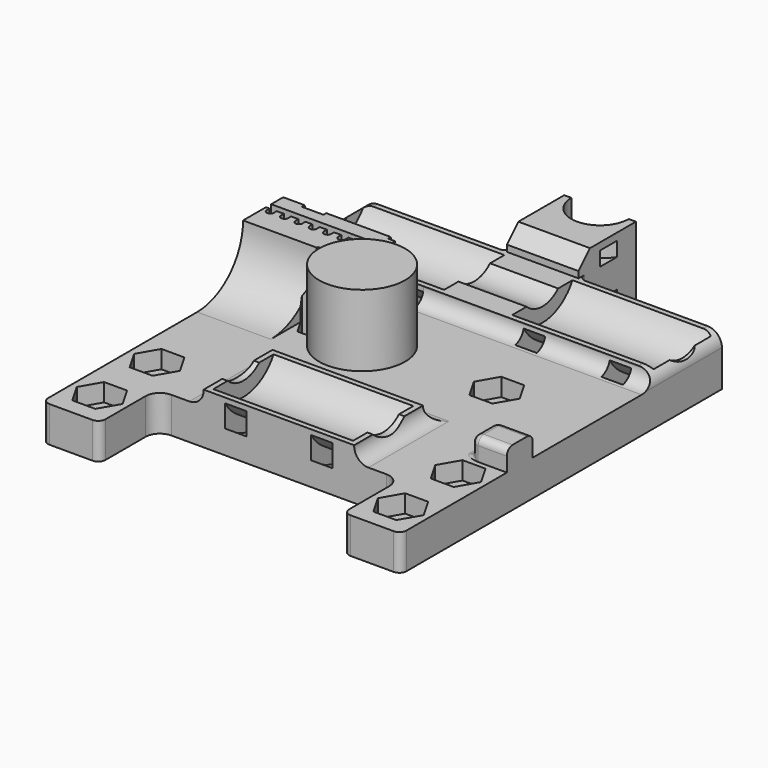
from build123d import *

# Parameters (mm, degrees)
CYLINDER005_R           = 6
CYLINDER005_DEPTH       = 10
BOX008_W                = 5
BOX008_H                = 4.5
BOX008_DEPTH            = 8
CYLINDER026_R           = 6
CYLINDER026_DEPTH       = 2
CYLINDER025_R           = 8
CYLINDER025_DEPTH       = 2
CYLINDER024_R           = 4
CYLINDER024_DEPTH       = 10
BOX007_W                = 10
BOX007_H                = 10
BOX007_DEPTH            = 10
BOX006_W                = 3
BOX006_H                = 1
BOX006_DEPTH            = 7
BOX005_W                = 3
BOX005_H                = 1
BOX005_DEPTH            = 7
BOX004_W                = 3
BOX004_H                = 3
BOX004_DEPTH            = 7
PRISM004_DEPTH          = 15
CYLINDER023_R           = 1.6
CYLINDER023_DEPTH       = 10
CYLINDER022_R           = 1.6
CYLINDER022_DEPTH       = 10
PRISM005_DEPTH          = 15
PRISM002_DEPTH          = 15
CYLINDER021_R           = 1.6
CYLINDER021_DEPTH       = 10
CYLINDER020_R           = 1.6
CYLINDER020_DEPTH       = 10
PRISM003_DEPTH          = 15
BOX002_W                = 8
BOX002_H                = 10
BOX002_DEPTH            = 5
BOX003_W                = 8
BOX003_H                = 10
BOX003_DEPTH            = 5
PRISM_DEPTH             = 15
CYLINDER019_R           = 1.6
CYLINDER019_DEPTH       = 10
CYLINDER018_R           = 1.6
CYLINDER018_DEPTH       = 10
PRISM001_DEPTH          = 15
CYLINDER015_R           = 7
CYLINDER015_DEPTH       = 3
CYLINDER015_PITCH_ANGLE = 90
CYLINDER014_R           = 9
CYLINDER014_DEPTH       = 3
CYLINDER014_PITCH_ANGLE = 90
CYLINDER013_R           = 7
CYLINDER013_DEPTH       = 3
CYLINDER013_PITCH_ANGLE = 90
CYLINDER012_R           = 9
CYLINDER012_DEPTH       = 3
CYLINDER012_PITCH_ANGLE = 90
CYLINDER011_R           = 7
CYLINDER011_DEPTH       = 3
CYLINDER011_PITCH_ANGLE = 90
CYLINDER010_R           = 9
CYLINDER010_DEPTH       = 3
CYLINDER010_PITCH_ANGLE = 90
CYLINDER009_R           = 7
CYLINDER009_DEPTH       = 3
CYLINDER009_PITCH_ANGLE = 90
CYLINDER008_R           = 9
CYLINDER008_DEPTH       = 3
CYLINDER008_PITCH_ANGLE = 90
CYLINDER007_R           = 7
CYLINDER007_DEPTH       = 3
CYLINDER007_PITCH_ANGLE = 90
CYLINDER006_R           = 9
CYLINDER006_DEPTH       = 3
CYLINDER006_PITCH_ANGLE = 90
CYLINDER017_R           = 7
CYLINDER017_DEPTH       = 3
CYLINDER017_PITCH_ANGLE = 90
CYLINDER016_R           = 9
CYLINDER016_DEPTH       = 3
CYLINDER016_PITCH_ANGLE = 90
BOX001_W                = 20
BOX001_H                = 0.9
BOX001_DEPTH            = 10
PAD002_DEPTH            = 10
ARRAY_X_COUNT           = 8
ARRAY_X_PITCH           = 2
CYLINDER003_R           = 4
CYLINDER003_DEPTH       = 70
CYLINDER003_PITCH_ANGLE = 90
CYLINDER002_R           = 6
CYLINDER002_DEPTH       = 19.5
CYLINDER002_PITCH_ANGLE = 90
CYLINDER001_R           = 6
CYLINDER001_DEPTH       = 19.5
CYLINDER001_PITCH_ANGLE = 90
CYLINDER_R              = 6
CYLINDER_DEPTH          = 19.5
CYLINDER_PITCH_ANGLE    = 90
CYLINDER004_R           = 4
CYLINDER004_DEPTH       = 70
CYLINDER004_PITCH_ANGLE = 90
BOX_W                   = 50
BOX_H                   = 46
BOX_DEPTH               = 5
SKETCH_W                = 50
SKETCH_H                = 12
SKETCH_W_2              = 21
PAD_DEPTH               = 2.1
FILLET_R                = 2
FILLET001_R             = 2
PAD001_DEPTH            = 16
POCKET_DEPTH            = 8
FILLET002_R             = 1
CHAMFER_SIZE            = 2
FILLET003_R             = 2
FILLET004_R             = 1
FILLET005_R             = 1


with BuildPart() as cilindro:
    # Cylinder005 → Cylinder005 (new body)
    with BuildSketch(Plane(origin=(19, 22, 5), x_dir=(1, 0, 0), z_dir=(0, 0, 1))):
        Circle(CYLINDER005_R)
    extrude(amount=CYLINDER005_DEPTH)


with BuildPart() as taco_endstop:
    # Box008 → Box008 (new body)
    with BuildSketch(Plane(origin=(45, 8.5, 0), x_dir=(1, 0, 0), z_dir=(0, 0, 1))):
        with Locations((2.5, 2.25)):
            Rectangle(BOX008_W, BOX008_H)
    extrude(amount=BOX008_DEPTH)


with BuildPart() as cilindro009:
    # Cylinder026 → Cylinder026 (new body)
    with BuildSketch(Plane(origin=(25, 56, 0), x_dir=(1, 0, 0), z_dir=(0, 0, 1))):
        Circle(CYLINDER026_R)
    extrude(amount=CYLINDER026_DEPTH)


with BuildPart() as cilindro008:
    # Cylinder025 → Cylinder025 (new body)
    with BuildSketch(Plane(origin=(25, 56, 0), x_dir=(1, 0, 0), z_dir=(0, 0, 1))):
        Circle(CYLINDER025_R)
    extrude(amount=CYLINDER025_DEPTH)


with BuildPart() as brida006:
    # Cut014 base: copy of Cilindro008
    add(cilindro008.part)

    # Cut014: cut Cilindro009
    add(cilindro009.part, mode=Mode.SUBTRACT)


with BuildPart() as brida006_1:
    # Cut014 placement: moved
    add(brida006.part.moved(Location((0, 0, 1))))


with BuildPart() as cilindro007:
    # Cylinder024 → Cylinder024 (new body)
    with BuildSketch(Plane(origin=(25, 56, 0), x_dir=(1, 0, 0), z_dir=(0, 0, 1))):
        Circle(CYLINDER024_R)
    extrude(amount=CYLINDER024_DEPTH)


with BuildPart() as cables_cabeza:
    # Cut015 base: copy of Cilindro008
    add(cilindro008.part)

    # Cut015: cut Cilindro009
    add(cilindro009.part, mode=Mode.SUBTRACT)


with BuildPart() as cables_cabeza_1:
    # Cut015 placement: moved
    add(cables_cabeza.part.moved(Location((0, 0, 7))))

    # Fusion009: union brida006, Cilindro007
    add(brida006_1.part)
    add(cilindro007.part)


with BuildPart() as cubo007:
    # Box007 → Box007 (new body)
    with BuildSketch(Plane(origin=(20, 46, 0), x_dir=(1, 0, 0), z_dir=(0, 0, 1))):
        with Locations((5, 5)):
            Rectangle(BOX007_W, BOX007_H)
    extrude(amount=BOX007_DEPTH)


with BuildPart() as cubo006:
    # Box006 → Box006 (new body)
    with BuildSketch(Plane(origin=(3, 33, 6), x_dir=(1, 0, 0), z_dir=(0, 0, 1))):
        with Locations((1.5, 0.5)):
            Rectangle(BOX006_W, BOX006_H)
    extrude(amount=BOX006_DEPTH)


with BuildPart() as cubo005:
    # Box005 → Box005 (new body)
    with BuildSketch(Plane(origin=(15, 33, 6), x_dir=(1, 0, 0), z_dir=(0, 0, 1))):
        with Locations((1.5, 0.5)):
            Rectangle(BOX005_W, BOX005_H)
    extrude(amount=BOX005_DEPTH)


with BuildPart() as cubo004:
    # Box004 → Box004 (new body)
    with BuildSketch(Plane(origin=(15, 33, 7.1), x_dir=(1, 0, 0), z_dir=(0, 0, 1))):
        with Locations((1.5, 1.5)):
            Rectangle(BOX004_W, BOX004_H)
    extrude(amount=BOX004_DEPTH)


with BuildPart() as prisma004:
    # Prism004 → Prism004 (new body)
    with BuildSketch(Plane(origin=(46, 5, 2.5), x_dir=(1, 0, 0), z_dir=(0, 0, 1))):
        Polygon((3.2, 0), (1.6, 2.771281), (-1.6, 2.771281), (-3.2, 0), (-1.6, -2.771281), (1.6, -2.771281), align=None)
    extrude(amount=PRISM004_DEPTH)


with BuildPart() as cilindro006:
    # Cylinder023 → Cylinder023 (new body)
    with BuildSketch(Plane(origin=(4, 5, 0), x_dir=(1, 0, 0), z_dir=(0, 0, 1))):
        Circle(CYLINDER023_R)
    extrude(amount=CYLINDER023_DEPTH)


with BuildPart() as cilindro005:
    # Cylinder022 → Cylinder022 (new body)
    with BuildSketch(Plane(origin=(46, 5, 0), x_dir=(1, 0, 0), z_dir=(0, 0, 1))):
        Circle(CYLINDER022_R)
    extrude(amount=CYLINDER022_DEPTH)


with BuildPart() as tornillos002:
    # Prism005 → Prism005 (new body)
    with BuildSketch(Plane(origin=(4, 5, 2.5), x_dir=(1, 0, 0), z_dir=(0, 0, 1))):
        Polygon((3.2, 0), (1.6, 2.771281), (-1.6, 2.771281), (-3.2, 0), (-1.6, -2.771281), (1.6, -2.771281), align=None)
    extrude(amount=PRISM005_DEPTH)

    # Fusion006: union Prisma004, Cilindro006, Cilindro005
    add(prisma004.part)
    add(cilindro006.part)
    add(cilindro005.part)


with BuildPart() as prisma002:
    # Prism002 → Prism002 (new body)
    with BuildSketch(Plane(origin=(46, -5, 2.5), x_dir=(1, 0, 0), z_dir=(0, 0, 1))):
        Polygon((3.2, 0), (1.6, 2.771281), (-1.6, 2.771281), (-3.2, 0), (-1.6, -2.771281), (1.6, -2.771281), align=None)
    extrude(amount=PRISM002_DEPTH)


with BuildPart() as cilindro004:
    # Cylinder021 → Cylinder021 (new body)
    with BuildSketch(Plane(origin=(4, -5, 0), x_dir=(1, 0, 0), z_dir=(0, 0, 1))):
        Circle(CYLINDER021_R)
    extrude(amount=CYLINDER021_DEPTH)


with BuildPart() as cilindro003:
    # Cylinder020 → Cylinder020 (new body)
    with BuildSketch(Plane(origin=(46, -5, 0), x_dir=(1, 0, 0), z_dir=(0, 0, 1))):
        Circle(CYLINDER020_R)
    extrude(amount=CYLINDER020_DEPTH)


with BuildPart() as obj1:
    # Prism003 → Prism003 (new body)
    with BuildSketch(Plane(origin=(4, -5, 2.5), x_dir=(1, 0, 0), z_dir=(0, 0, 1))):
        Polygon((3.2, 0), (1.6, 2.771281), (-1.6, 2.771281), (-3.2, 0), (-1.6, -2.771281), (1.6, -2.771281), align=None)
    extrude(amount=PRISM003_DEPTH)

    # Fusion005: union Prisma002, Cilindro004, Cilindro003
    add(prisma002.part)
    add(cilindro004.part)
    add(cilindro003.part)

    # Fusion007: union tornillos002
    add(tornillos002.part)


with BuildPart() as cubo002:
    # Box002 → Box002 (new body)
    with BuildSketch(Plane(origin=(0, -10, 0), x_dir=(1, 0, 0), z_dir=(0, 0, 1))):
        with Locations((4, 5)):
            Rectangle(BOX002_W, BOX002_H)
    extrude(amount=BOX002_DEPTH)


with BuildPart() as cubo003:
    # Box003 → Box003 (new body)
    with BuildSketch(Plane(origin=(42, -10, 0), x_dir=(1, 0, 0), z_dir=(0, 0, 1))):
        with Locations((4, 5)):
            Rectangle(BOX003_W, BOX003_H)
    extrude(amount=BOX003_DEPTH)


with BuildPart() as prisma:
    # Prism → Prism (new body)
    with BuildSketch(Plane(origin=(13, 23, 2.5), x_dir=(1, 0, 0), z_dir=(0, 0, 1))):
        Polygon((3.2, 0), (1.6, 2.771281), (-1.6, 2.771281), (-3.2, 0), (-1.6, -2.771281), (1.6, -2.771281), align=None)
    extrude(amount=PRISM_DEPTH)


with BuildPart() as cilindro002:
    # Cylinder019 → Cylinder019 (new body)
    with BuildSketch(Plane(origin=(37, 23, 0), x_dir=(1, 0, 0), z_dir=(0, 0, 1))):
        Circle(CYLINDER019_R)
    extrude(amount=CYLINDER019_DEPTH)


with BuildPart() as cilindro001:
    # Cylinder018 → Cylinder018 (new body)
    with BuildSketch(Plane(origin=(13, 23, 0), x_dir=(1, 0, 0), z_dir=(0, 0, 1))):
        Circle(CYLINDER018_R)
    extrude(amount=CYLINDER018_DEPTH)


with BuildPart() as tornillos:
    # Prism001 → Prism001 (new body)
    with BuildSketch(Plane(origin=(37, 23, 2.5), x_dir=(1, 0, 0), z_dir=(0, 0, 1))):
        Polygon((3.2, 0), (1.6, 2.771281), (-1.6, 2.771281), (-3.2, 0), (-1.6, -2.771281), (1.6, -2.771281), align=None)
    extrude(amount=PRISM001_DEPTH)

    # Fusion003: union Prisma, Cilindro002, Cilindro001
    add(prisma.part)
    add(cilindro002.part)
    add(cilindro001.part)


with BuildPart() as obj2:
    # Cylinder015 → Cylinder015 (new body)
    with BuildSketch(Plane.XY):
        Circle(CYLINDER015_R)
    extrude(amount=CYLINDER015_DEPTH)


with BuildPart() as obj2_1:
    # Cylinder015 pitch: moved
    add(obj2.part.rotate(Axis((0, 0, 0), (0, 1, 0)), CYLINDER015_PITCH_ANGLE))


with BuildPart() as obj2_2:
    # Cylinder015 placement: moved
    add(obj2_1.part.moved(Location((30, 40, 10))))


with BuildPart() as brida004:
    # Cylinder014 → Cylinder014 (new body)
    with BuildSketch(Plane.XY):
        Circle(CYLINDER014_R)
    extrude(amount=CYLINDER014_DEPTH)


with BuildPart() as brida004_1:
    # Cylinder014 pitch: moved
    add(brida004.part.rotate(Axis((0, 0, 0), (0, 1, 0)), CYLINDER014_PITCH_ANGLE))


with BuildPart() as brida004_2:
    # Cylinder014 placement: moved
    add(brida004_1.part.moved(Location((30, 40, 10))))

    # Cut006: cut obj2
    add(obj2_2.part, mode=Mode.SUBTRACT)


with BuildPart() as brida004_3:
    # Cut006 placement: moved
    add(brida004_2.part.moved(Location((-15, 0, 0))))


with BuildPart() as obj3:
    # Cylinder013 → Cylinder013 (new body)
    with BuildSketch(Plane.XY):
        Circle(CYLINDER013_R)
    extrude(amount=CYLINDER013_DEPTH)


with BuildPart() as obj3_1:
    # Cylinder013 pitch: moved
    add(obj3.part.rotate(Axis((0, 0, 0), (0, 1, 0)), CYLINDER013_PITCH_ANGLE))


with BuildPart() as obj3_2:
    # Cylinder013 placement: moved
    add(obj3_1.part.moved(Location((30, 40, 10))))


with BuildPart() as brida003:
    # Cylinder012 → Cylinder012 (new body)
    with BuildSketch(Plane.XY):
        Circle(CYLINDER012_R)
    extrude(amount=CYLINDER012_DEPTH)


with BuildPart() as brida003_1:
    # Cylinder012 pitch: moved
    add(brida003.part.rotate(Axis((0, 0, 0), (0, 1, 0)), CYLINDER012_PITCH_ANGLE))


with BuildPart() as brida003_2:
    # Cylinder012 placement: moved
    add(brida003_1.part.moved(Location((30, 40, 10))))

    # Cut005: cut obj3
    add(obj3_2.part, mode=Mode.SUBTRACT)


with BuildPart() as brida003_3:
    # Cut005 placement: moved
    add(brida003_2.part.moved(Location((-0.5, -34, 0))))


with BuildPart() as obj4:
    # Cylinder011 → Cylinder011 (new body)
    with BuildSketch(Plane.XY):
        Circle(CYLINDER011_R)
    extrude(amount=CYLINDER011_DEPTH)


with BuildPart() as obj4_1:
    # Cylinder011 pitch: moved
    add(obj4.part.rotate(Axis((0, 0, 0), (0, 1, 0)), CYLINDER011_PITCH_ANGLE))


with BuildPart() as obj4_2:
    # Cylinder011 placement: moved
    add(obj4_1.part.moved(Location((30, 40, 10))))


with BuildPart() as brida002:
    # Cylinder010 → Cylinder010 (new body)
    with BuildSketch(Plane.XY):
        Circle(CYLINDER010_R)
    extrude(amount=CYLINDER010_DEPTH)


with BuildPart() as brida002_1:
    # Cylinder010 pitch: moved
    add(brida002.part.rotate(Axis((0, 0, 0), (0, 1, 0)), CYLINDER010_PITCH_ANGLE))


with BuildPart() as brida002_2:
    # Cylinder010 placement: moved
    add(brida002_1.part.moved(Location((30, 40, 10))))

    # Cut004: cut obj4
    add(obj4_2.part, mode=Mode.SUBTRACT)


with BuildPart() as brida002_3:
    # Cut004 placement: moved
    add(brida002_2.part.moved(Location((-27, 0, 0))))


with BuildPart() as obj5:
    # Cylinder009 → Cylinder009 (new body)
    with BuildSketch(Plane.XY):
        Circle(CYLINDER009_R)
    extrude(amount=CYLINDER009_DEPTH)


with BuildPart() as obj5_1:
    # Cylinder009 pitch: moved
    add(obj5.part.rotate(Axis((0, 0, 0), (0, 1, 0)), CYLINDER009_PITCH_ANGLE))


with BuildPart() as obj5_2:
    # Cylinder009 placement: moved
    add(obj5_1.part.moved(Location((30, 40, 10))))


with BuildPart() as brida001:
    # Cylinder008 → Cylinder008 (new body)
    with BuildSketch(Plane.XY):
        Circle(CYLINDER008_R)
    extrude(amount=CYLINDER008_DEPTH)


with BuildPart() as brida001_1:
    # Cylinder008 pitch: moved
    add(brida001.part.rotate(Axis((0, 0, 0), (0, 1, 0)), CYLINDER008_PITCH_ANGLE))


with BuildPart() as brida001_2:
    # Cylinder008 placement: moved
    add(brida001_1.part.moved(Location((30, 40, 10))))

    # Cut003: cut obj5
    add(obj5_2.part, mode=Mode.SUBTRACT)


with BuildPart() as brida001_3:
    # Cut003 placement: moved
    add(brida001_2.part.moved(Location((14, 0, 0))))


with BuildPart() as obj6:
    # Cylinder007 → Cylinder007 (new body)
    with BuildSketch(Plane.XY):
        Circle(CYLINDER007_R)
    extrude(amount=CYLINDER007_DEPTH)


with BuildPart() as obj6_1:
    # Cylinder007 pitch: moved
    add(obj6.part.rotate(Axis((0, 0, 0), (0, 1, 0)), CYLINDER007_PITCH_ANGLE))


with BuildPart() as obj6_2:
    # Cylinder007 placement: moved
    add(obj6_1.part.moved(Location((30, 40, 10))))


with BuildPart() as brida:
    # Cylinder006 → Cylinder006 (new body)
    with BuildSketch(Plane.XY):
        Circle(CYLINDER006_R)
    extrude(amount=CYLINDER006_DEPTH)


with BuildPart() as brida_1:
    # Cylinder006 pitch: moved
    add(brida.part.rotate(Axis((0, 0, 0), (0, 1, 0)), CYLINDER006_PITCH_ANGLE))


with BuildPart() as brida_2:
    # Cylinder006 placement: moved
    add(brida_1.part.moved(Location((30, 40, 10))))

    # Cut002: cut obj6
    add(obj6_2.part, mode=Mode.SUBTRACT)


with BuildPart() as brida_3:
    # Cut002 placement: moved
    add(brida_2.part.moved(Location((2, 0, 0))))


with BuildPart() as obj7:
    # Cylinder017 → Cylinder017 (new body)
    with BuildSketch(Plane.XY):
        Circle(CYLINDER017_R)
    extrude(amount=CYLINDER017_DEPTH)


with BuildPart() as obj7_1:
    # Cylinder017 pitch: moved
    add(obj7.part.rotate(Axis((0, 0, 0), (0, 1, 0)), CYLINDER017_PITCH_ANGLE))


with BuildPart() as obj7_2:
    # Cylinder017 placement: moved
    add(obj7_1.part.moved(Location((30, 40, 10))))


with BuildPart() as fusion002:
    # Cylinder016 → Cylinder016 (new body)
    with BuildSketch(Plane.XY):
        Circle(CYLINDER016_R)
    extrude(amount=CYLINDER016_DEPTH)


with BuildPart() as fusion002_1:
    # Cylinder016 pitch: moved
    add(fusion002.part.rotate(Axis((0, 0, 0), (0, 1, 0)), CYLINDER016_PITCH_ANGLE))


with BuildPart() as fusion002_2:
    # Cylinder016 placement: moved
    add(fusion002_1.part.moved(Location((30, 40, 10))))

    # Cut007: cut obj7
    add(obj7_2.part, mode=Mode.SUBTRACT)


with BuildPart() as fusion002_3:
    # Cut007 placement: moved
    add(fusion002_2.part.moved(Location((-12.5, -34, 0))))

    # Fusion002: union brida004, brida003, brida002, brida001, brida
    add(brida004_3.part)
    add(brida003_3.part)
    add(brida002_3.part)
    add(brida001_3.part)
    add(brida_3.part)


with BuildPart() as cubo001:
    # Box001 → Box001 (new body)
    with BuildSketch(Plane(origin=(-1, 29, 6), x_dir=(1, 0, 0), z_dir=(0, 0, 1))):
        with Locations((10, 0.45)):
            Rectangle(BOX001_W, BOX001_H)
    extrude(amount=BOX001_DEPTH)


with BuildPart() as correa:
    # Sketch002 → Pad002 (new body)
    with BuildSketch(Plane.XY.offset(6)):
        with BuildLine():
            Line((0, 29), (0, 28.5))
            ThreePointArc((0, 28.5), (0.5, 27.999995), (1, 28.5))
            Line((1, 29), (1, 28.5))
            Line((0, 29), (1, 29))
        make_face()
    extrude(amount=PAD002_DEPTH)

    # Array X: correa ×8


with BuildPart() as correa_1:
    add(correa.part)
    with Locations(*[(i * ARRAY_X_PITCH, 0, 0) for i in range(1, ARRAY_X_COUNT)]):
        add(correa.part)


with BuildPart() as correa_2:
    # Array placement: moved
    add(correa_1.part.moved(Location((0.5, 0, 0))))

    # Fusion001: union Cubo001
    add(cubo001.part)


with BuildPart() as obj8:
    # Cylinder003 → Cylinder003 (new body)
    with BuildSketch(Plane.XY):
        Circle(CYLINDER003_R)
    extrude(amount=CYLINDER003_DEPTH)


with BuildPart() as obj8_1:
    # Cylinder003 pitch: moved
    add(obj8.part.rotate(Axis((0, 0, 0), (0, 1, 0)), CYLINDER003_PITCH_ANGLE))


with BuildPart() as obj8_2:
    # Cylinder003 placement: moved
    add(obj8_1.part.moved(Location((-10, 6, 10))))


with BuildPart() as rodamiento_alto002:
    # Cylinder002 → Cylinder002 (new body)
    with BuildSketch(Plane.XY):
        Circle(CYLINDER002_R)
    extrude(amount=CYLINDER002_DEPTH)


with BuildPart() as rodamiento_alto002_1:
    # Cylinder002 pitch: moved
    add(rodamiento_alto002.part.rotate(Axis((0, 0, 0), (0, 1, 0)), CYLINDER002_PITCH_ANGLE))


with BuildPart() as rodamiento_alto002_2:
    # Cylinder002 placement: moved
    add(rodamiento_alto002_1.part.moved(Location((29.75, 40, 10))))


with BuildPart() as rodamiento_alto1:
    # Cylinder001 → Cylinder001 (new body)
    with BuildSketch(Plane.XY):
        Circle(CYLINDER001_R)
    extrude(amount=CYLINDER001_DEPTH)


with BuildPart() as rodamiento_alto1_1:
    # Cylinder001 pitch: moved
    add(rodamiento_alto1.part.rotate(Axis((0, 0, 0), (0, 1, 0)), CYLINDER001_PITCH_ANGLE))


with BuildPart() as rodamiento_alto1_2:
    # Cylinder001 placement: moved
    add(rodamiento_alto1_1.part.moved(Location((0.75, 40, 10))))


with BuildPart() as obj9:
    # Cylinder → Cylinder (new body)
    with BuildSketch(Plane.XY):
        Circle(CYLINDER_R)
    extrude(amount=CYLINDER_DEPTH)


with BuildPart() as obj9_1:
    # Cylinder pitch: moved
    add(obj9.part.rotate(Axis((0, 0, 0), (0, 1, 0)), CYLINDER_PITCH_ANGLE))


with BuildPart() as obj9_2:
    # Cylinder placement: moved
    add(obj9_1.part.moved(Location((15.25, 6, 10))))


with BuildPart() as fusion:
    # Cylinder004 → Cylinder004 (new body)
    with BuildSketch(Plane.XY):
        Circle(CYLINDER004_R)
    extrude(amount=CYLINDER004_DEPTH)


with BuildPart() as fusion_1:
    # Cylinder004 pitch: moved
    add(fusion.part.rotate(Axis((0, 0, 0), (0, 1, 0)), CYLINDER004_PITCH_ANGLE))


with BuildPart() as fusion_2:
    # Cylinder004 placement: moved
    add(fusion_1.part.moved(Location((-10, 40, 10))))

    # Fusion: union obj8, rodamiento_alto002, rodamiento_alto1, obj9
    add(obj8_2.part)
    add(rodamiento_alto002_2.part)
    add(rodamiento_alto1_2.part)
    add(obj9_2.part)


with BuildPart() as fillet005:
    # Box → Box (new body)
    with BuildSketch(Plane.XY):
        with Locations((25, 23)):
            Rectangle(BOX_W, BOX_H)
    extrude(amount=BOX_DEPTH)

    # Sketch → Pad (new body)
    with BuildSketch(Plane.XY.offset(5)):
        with Locations((25, 40)):
            Rectangle(SKETCH_W, SKETCH_H)
        with Locations((25, 6)):
            Rectangle(SKETCH_W_2, SKETCH_H)
    extrude(amount=PAD_DEPTH)

    # Fillet
    fillet_edges = [fillet005.edges().sort_by_distance(p)[0] for p in [
        (35.5, 6, 5),
        (25, 34, 5),
        (14.5, 6, 5),
        (25, 12, 5),
    ]]
    fillet(fillet_edges, radius=FILLET_R)

    # Fillet001
    fillet001_edges = [fillet005.edges().sort_by_distance(p)[0] for p in [
        (50, 40, 7.1),
        (0, 40, 7.1),
    ]]
    fillet(fillet001_edges, radius=FILLET001_R)

    # Sketch001 → Pad001 (new body)
    with BuildSketch(Plane(origin=(0, 0, 0), x_dir=(0, -1, 0), z_dir=(-1, 0, 0))):
        with BuildLine():
            ThreePointArc((-25, 13), (-22.656846, 7.343138), (-16.999978, 5))
            Line((-40, 5), (-16.999978, 5))
            ThreePointArc((-40, 5), (-34.343146, 7.343146), (-32, 13))
            Line((-32, 13), (-25, 13))
        make_face()
    extrude(amount=-PAD001_DEPTH)

    # Cut: cut Fusion
    add(fusion_2.part, mode=Mode.SUBTRACT)

    # Cut001: cut correa
    add(correa_2.part, mode=Mode.SUBTRACT)

    # Sketch003 → Pocket (cut)
    with BuildSketch(Plane.XY.offset(13)):
        with BuildLine():
            ThreePointArc((18.270772, 31.191023), (15.086008, 28.76166), (13.270772, 25.191023))
            Line((13.270772, 25.191023), (10.270772, 25.191023))
            Line((10.270772, 16.191023), (10.270772, 25.191023))
            Line((10.270772, 16.191023), (18.270772, 16.191023))
            Line((18.270772, 16.191023), (18.270772, 31.191023))
        make_face()
    extrude(amount=-POCKET_DEPTH, mode=Mode.SUBTRACT)

    # Cut008: cut Fusion002
    add(fusion002_3.part, mode=Mode.SUBTRACT)

    # Cut009: cut tornillos
    add(tornillos.part, mode=Mode.SUBTRACT)

    # Fusion004: union Cubo002, Cubo003
    add(cubo002.part)
    add(cubo003.part)

    # Cut010: cut obj1
    add(obj1.part, mode=Mode.SUBTRACT)

    # Cut011: cut Cubo004
    add(cubo004.part, mode=Mode.SUBTRACT)

    # Cut012: cut Cubo005
    add(cubo005.part, mode=Mode.SUBTRACT)

    # Cut013: cut Cubo006
    add(cubo006.part, mode=Mode.SUBTRACT)

    # Fusion008: union Cubo007
    add(cubo007.part)

    # Fillet002
    fillet002_edges = [fillet005.edges().sort_by_distance(p)[0] for p in [
        (30, 46, 3.55),
        (20, 46, 3.55),
    ]]
    fillet(fillet002_edges, radius=FILLET002_R)

    # Cut016: cut cables_cabeza
    add(cables_cabeza_1.part, mode=Mode.SUBTRACT)

    # Chamfer
    chamfer_edges = [fillet005.edges().sort_by_distance(p)[0] for p in [
        (25, 46, 10),
    ]]
    chamfer(chamfer_edges, length=CHAMFER_SIZE)

    # Fillet003
    fillet003_edges = [fillet005.edges().sort_by_distance(p)[0] for p in [
        (8, 0, 2.5),
        (42, 0, 2.5),
    ]]
    fillet(fillet003_edges, radius=FILLET003_R)

    # Fillet004
    fillet004_edges = [fillet005.edges().sort_by_distance(p)[0] for p in [
        (0, -10, 2.5),
        (8, -10, 2.5),
        (42, -10, 2.5),
        (50, -10, 2.5),
    ]]
    fillet(fillet004_edges, radius=FILLET004_R)

    # Fusion010: union taco_endstop
    add(taco_endstop.part)

    # Fillet005
    fillet005_edges = [fillet005.edges().sort_by_distance(p)[0] for p in [
        (45, 8.5, 6.5),
        (45, 13, 6.5),
        (45, 10.75, 8),
        (45, 10.75, 5),
        (47.5, 8.5, 8),
        (47.5, 13, 8),
    ]]
    fillet(fillet005_edges, radius=FILLET005_R)


solid = Compound([cilindro.part, fillet005.part])
